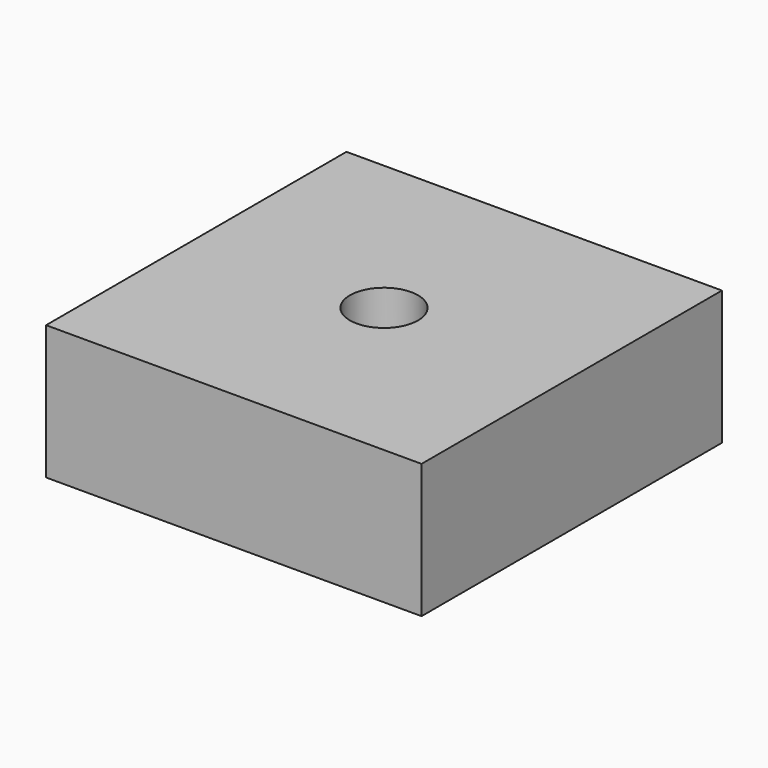
from build123d import *

# Parameters (mm, degrees)
F0_W     = 70
F0_H     = 70
F1_DEPTH = 25
F2_R     = 2.5527
F3_DEPTH = 6.35
F4_R     = 6.35
F5_DEPTH = 25
F6_R     = 2.5527
F7_DEPTH = 30.1856882138


with BuildPart() as f1:
    # F0 (on Top) → F1 (new body)
    with BuildSketch(Plane.XY):
        Rectangle(F0_W, F0_H)
    extrude(amount=F1_DEPTH)

    # F2 (on Top) → F3 (cut)
    with BuildSketch(Plane.XY):
        Circle(F2_R)
        with Locations((-25.4, 0)):
            Circle(F2_R)
        with Locations((-12.7, -21.9970452561)):
            Circle(F2_R)
        with Locations((12.7, -21.9970452561)):
            Circle(F2_R)
        with Locations((25.4, 0)):
            Circle(F2_R)
        with Locations((12.7, 21.9970452561)):
            Circle(F2_R)
        with Locations((-12.7, 21.9970452561)):
            Circle(F2_R)
    extrude(amount=F3_DEPTH, mode=Mode.SUBTRACT)

    # F4 (on face) → F5 (cut, through all)
    with BuildSketch(Plane.XY.offset(25)):
        Circle(F4_R)
    extrude(amount=-F5_DEPTH, mode=Mode.SUBTRACT)

    # F6 (on face) → F7 (cut, up to face)
    with BuildSketch(Plane(origin=(0, 35, 0), x_dir=(-1, 0, 0), z_dir=(0, 1, 0))):
        with Locations((0, 12.5)):
            Circle(F6_R)
    extrude(amount=-F7_DEPTH, mode=Mode.SUBTRACT)


solid = f1.part
